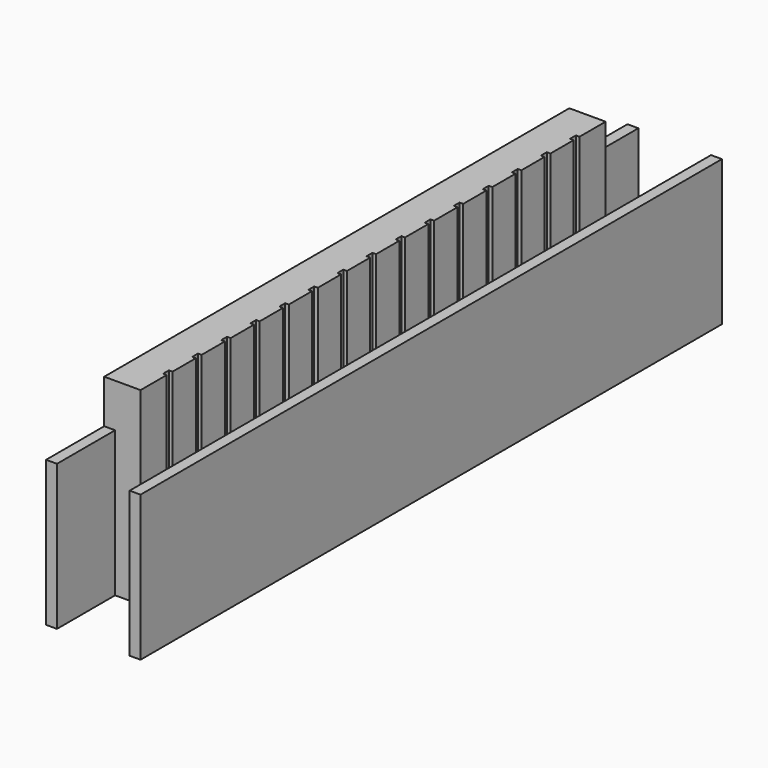
from build123d import *

# Parameters (mm, degrees)
BOX059_W         = 0.3
BOX059_H         = 20
BOX059_DEPTH     = 4
BOX061_W         = 0.1
BOX061_H         = 0.2
BOX061_DEPTH     = 3
ARRAY017_Y_COUNT = 15
ARRAY017_Y_PITCH = 1
BOX060_W         = 1
BOX060_H         = 16
BOX060_DEPTH     = 5.2


with BuildPart() as cube033:
    # Box059 → Box059 (new body)
    with BuildSketch(Plane(origin=(1, -10, 0.2), x_dir=(1, 0, 0), z_dir=(0, 0, 1))):
        with Locations((0.15, 10)):
            Rectangle(BOX059_W, BOX059_H)
    extrude(amount=BOX059_DEPTH)


with BuildPart() as cube048:
    # Clone030 base: copy of Cube033
    add(cube033.part)


with BuildPart() as cube048_1:
    # Clone030 placement: moved
    add(cube048.part.moved(Location((-2.3, 0, 0))))


with BuildPart() as array017:
    # Box061 → Box061 (new body)
    with BuildSketch(Plane(origin=(-0.4, -7.1, 2.4), x_dir=(1, 0, 0), z_dir=(0, 0, 1))):
        with Locations((0.05, 0.1)):
            Rectangle(BOX061_W, BOX061_H)
    extrude(amount=BOX061_DEPTH)

    # Array017 Y: Array017 ×15


with BuildPart() as array017_1:
    add(array017.part)
    with Locations(*[(0, i * ARRAY017_Y_PITCH, 0) for i in range(1, ARRAY017_Y_COUNT)]):
        add(array017.part)


with BuildPart() as cut012:
    # Box060 → Box060 (new body)
    with BuildSketch(Plane(origin=(-1.3, -8, 0.2), x_dir=(1, 0, 0), z_dir=(0, 0, 1))):
        with Locations((0.5, 8)):
            Rectangle(BOX060_W, BOX060_H)
    extrude(amount=BOX060_DEPTH)

    # Cut012: cut Array017
    add(array017_1.part, mode=Mode.SUBTRACT)


with BuildPart() as holder:
    # Fusion045 base: copy of Cube033
    add(cube033.part)

    # Fusion045: union Cube048, Cut012
    add(cube048_1.part)
    add(cut012.part)


solid = holder.part
